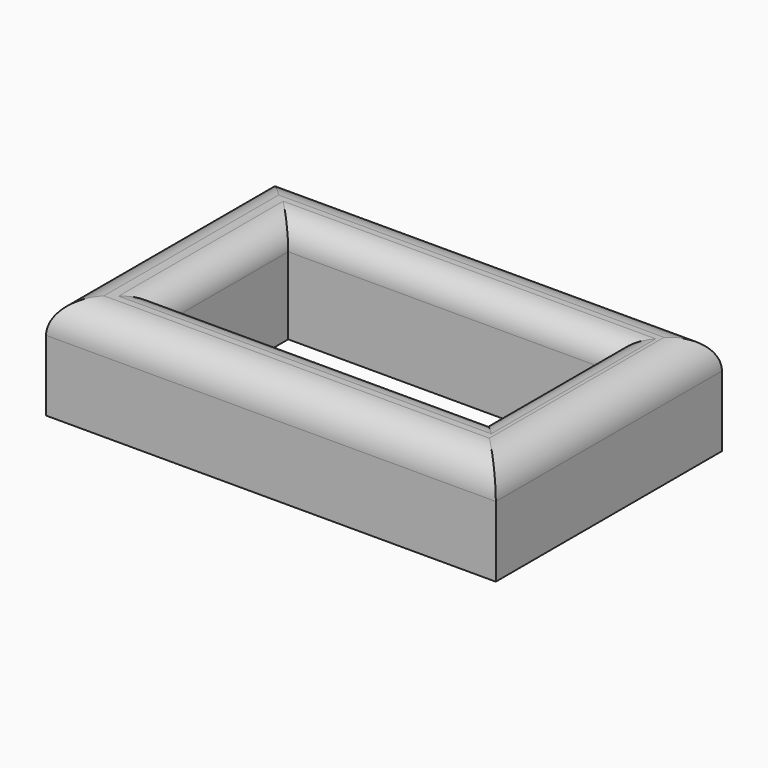
from build123d import *

# Parameters (mm, degrees)
F0_W     = 35
F0_H     = 22
F0_W_2   = 25
F0_H_2   = 12
F1_DEPTH = 8
F2_R     = 2.5
F3_R     = 2


with BuildPart() as f1:
    # F0 (on Top) → F1 (new body)
    with BuildSketch(Plane.XY):
        with Locations((-41.790893, 40.325698)):
            Rectangle(F0_W, F0_H)
        with Locations((-41.567577, 40.353398)):
            Rectangle(F0_W_2, F0_H_2, mode=Mode.SUBTRACT)
    extrude(amount=F1_DEPTH)

    # F2
    f2_edges = [f1.edges().sort_by_distance(p)[0] for p in [
        (-41.790893, 29.325698, 8),
        (-59.290893, 40.325698, 8),
        (-41.790893, 51.325698, 8),
        (-24.290893, 40.325698, 8),
    ]]
    fillet(f2_edges, radius=F2_R)

    # F3
    f3_edges = [f1.edges().sort_by_distance(p)[0] for p in [
        (-41.567577, 46.353398, 8),
        (-54.067577, 40.353398, 8),
        (-41.567577, 34.353398, 8),
        (-29.067577, 40.353398, 8),
    ]]
    fillet(f3_edges, radius=F3_R)


solid = f1.part
